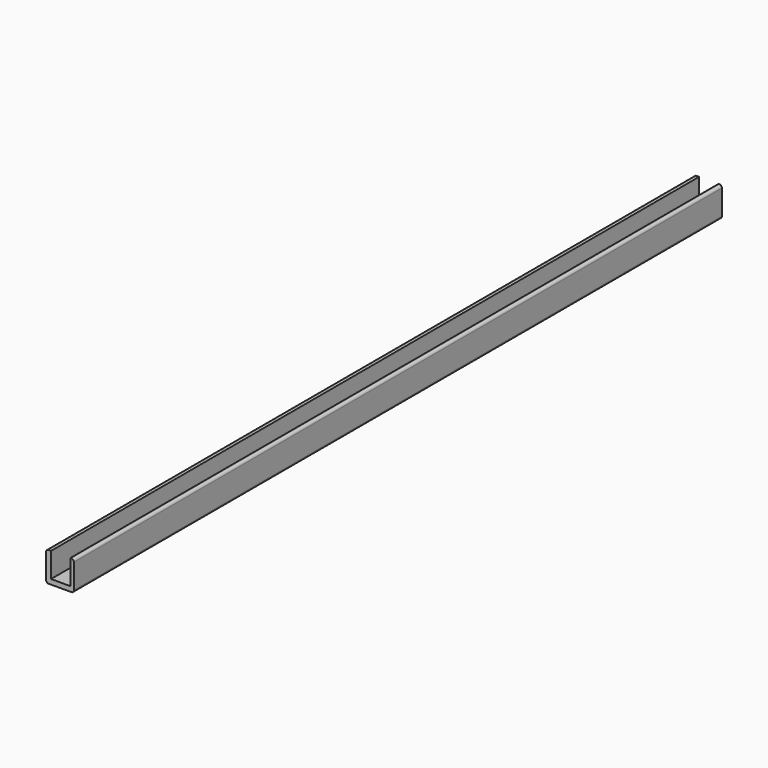
from build123d import *

# Parameters (mm, degrees)
F0_W     = 1
F0_H     = 163.5
F1_DEPTH = 6
F0_W_2   = 0.7
F2_R     = 0.5
F2_2_R   = 0.5
F0_W_3   = 3.9
F3_DEPTH = 1


with BuildPart() as f1:
    # F0 (on Top) → F1 (new body)
    with BuildSketch(Plane.XY):
        with Locations((-2.45, 61.75)):
            Rectangle(F0_W, F0_H)
    extrude(amount=F1_DEPTH)

    # F2
    f2_edges = [f1.edges().sort_by_distance(p)[0] for p in [
        (-2.95, 61.75, 6),
        (-2.95, 61.75, 0),
    ]]
    fillet(f2_edges, radius=F2_R)



with BuildPart() as f1b:
    # F0 (on Top) → F1, piece 2 (new body)
    with BuildSketch(Plane.XY):
        with Locations((2.3, 61.75)):
            Rectangle(F0_W_2, F0_H)
    extrude(amount=F1_DEPTH)

    # F2#2
    f2_2_edges = [f1b.edges().sort_by_distance(p)[0] for p in [
        (2.65, 61.75, 6),
        (2.65, 61.75, 0),
    ]]
    fillet(f2_2_edges, radius=F2_2_R)


with BuildPart() as f1_1:
    add(f1.part)

    add(f1b.part)  # F3 merges F1b
    # F0 (on Top) → F3 (join)
    with BuildSketch(Plane.XY):
        with Locations((0, 61.75)):
            Rectangle(F0_W_3, F0_H)
    extrude(amount=F3_DEPTH)


solid = f1_1.part
